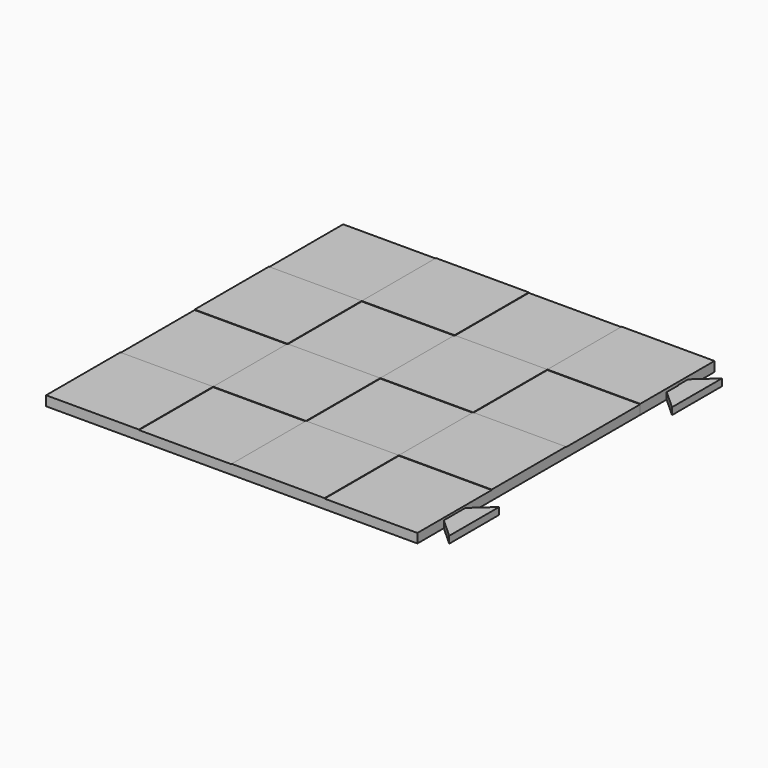
from build123d import *

# Parameters (mm, degrees)
F0_W     = 40
F0_H     = 40
F1_DEPTH = 4
F2_DEPTH = 4.2
F3_DEPTH = 3
F4_DEPTH = 3


with BuildPart() as f1:
    # F0 (on Top) → F1 (new body)
    with BuildSketch(Plane.XY):
        Polygon((-80, 80), (-80, 40), (-40, 40), (-40, 80), (-53.9420571923, 80), (-46.1195930839, 71.3396444917), (-60, 71.3396444917), (-73.8804069161, 71.3396444917), (-66.0579428077, 80), align=None)
        Polygon((-60, 80), (-66.0579428077, 80), (-73.8804069161, 71.3396444917), (-60, 71.3396444917), align=None)
        Polygon((-46.1195930839, 71.3396444917), (-53.9420571923, 80), (-60, 80), (-60, 71.3396444917), align=None)
        with Locations((-20, 60)):
            Rectangle(F0_W, F0_H)
        with Locations((20, 60)):
            Rectangle(F0_W, F0_H)
        Polygon((40, 80), (40, 40), (71.3396444917, 71.3396444917), (60, 71.3396444917), (46.1195930839, 71.3396444917), (53.9420571923, 80), align=None)
        Polygon((71.3396444917, 71.3396444917), (40, 40), (80, 40), (80, 53.9420571923), (80, 54.19581756), (80, 60), (80, 65.7884331082), (80, 66.0579428077), (80, 80), (72.6746045513, 72.6746045513), (73.8804069161, 71.3396444917), align=None)
        Polygon((72.6746045513, 72.6746045513), (71.3396444917, 71.3396444917), (73.8804069161, 71.3396444917), align=None)
        Polygon((60, 71.3396444917), (71.3396444917, 71.3396444917), (72.6746045513, 72.6746045513), (66.0579428077, 80), (60, 80), align=None)
        Polygon((66.0579428077, 80), (72.6746045513, 72.6746045513), (80, 80), align=None)
        Polygon((60, 80), (53.9420571923, 80), (46.1195930839, 71.3396444917), (60, 71.3396444917), align=None)
        with Locations((20, 20)):
            Rectangle(F0_W, F0_H)
        with Locations((-20, 20)):
            Rectangle(F0_W, F0_H)
        with Locations((-60, 20)):
            Rectangle(F0_W, F0_H)
        with Locations((-60, -20)):
            Rectangle(F0_W, F0_H)
        with Locations((-20, -20)):
            Rectangle(F0_W, F0_H)
        with Locations((20, -20)):
            Rectangle(F0_W, F0_H)
        with Locations((60, -20)):
            Rectangle(F0_W, F0_H)
        Polygon((40, -40), (40, -80), (80, -80), (80, -66.0579428077), (80, -65.7884331082), (80, -60), (80, -54.19581756), (80, -53.9420571923), (80, -40), align=None)
        with Locations((20, -60)):
            Rectangle(F0_W, F0_H)
        with Locations((-20, -60)):
            Rectangle(F0_W, F0_H)
        with Locations((-60, -60)):
            Rectangle(F0_W, F0_H)
        with Locations((60, 20)):
            Rectangle(F0_W, F0_H)
    extrude(amount=F1_DEPTH)


with BuildPart() as f2:
    # F0 (on Top) → F2 (new body)
    with BuildSketch(Plane.XY):
        with Locations((-60, -60)):
            Rectangle(F0_W, F0_H)
    extrude(amount=F2_DEPTH)


with BuildPart() as f2b:
    # F0 (on Top) → F2, piece 2 (new body)
    with BuildSketch(Plane.XY):
        with Locations((-20, -20)):
            Rectangle(F0_W, F0_H)
    extrude(amount=F2_DEPTH)


with BuildPart() as f2c:
    # F0 (on Top) → F2, piece 3 (new body)
    with BuildSketch(Plane.XY):
        with Locations((-60, 20)):
            Rectangle(F0_W, F0_H)
    extrude(amount=F2_DEPTH)


with BuildPart() as f2d:
    # F0 (on Top) → F2, piece 4 (new body)
    with BuildSketch(Plane.XY):
        with Locations((-20, 60)):
            Rectangle(F0_W, F0_H)
    extrude(amount=F2_DEPTH)


with BuildPart() as f2e:
    # F0 (on Top) → F2, piece 5 (new body)
    with BuildSketch(Plane.XY):
        with Locations((20, 20)):
            Rectangle(F0_W, F0_H)
    extrude(amount=F2_DEPTH)


with BuildPart() as f2f:
    # F0 (on Top) → F2, piece 6 (new body)
    with BuildSketch(Plane.XY):
        with Locations((60, -20)):
            Rectangle(F0_W, F0_H)
    extrude(amount=F2_DEPTH)


with BuildPart() as f2g:
    # F0 (on Top) → F2, piece 7 (new body)
    with BuildSketch(Plane.XY):
        with Locations((20, -60)):
            Rectangle(F0_W, F0_H)
    extrude(amount=F2_DEPTH)


with BuildPart() as f2h:
    # F0 (on Top) → F2, piece 8 (new body)
    with BuildSketch(Plane.XY):
        Polygon((40, 80), (40, 40), (71.3396444917, 71.3396444917), (60, 71.3396444917), (46.1195930839, 71.3396444917), (53.9420571923, 80), align=None)
        Polygon((71.3396444917, 71.3396444917), (40, 40), (80, 40), (80, 53.9420571923), (80, 54.19581756), (80, 60), (80, 65.7884331082), (80, 66.0579428077), (80, 80), (72.6746045513, 72.6746045513), (73.8804069161, 71.3396444917), align=None)
        Polygon((60, 71.3396444917), (71.3396444917, 71.3396444917), (72.6746045513, 72.6746045513), (66.0579428077, 80), (60, 80), align=None)
        Polygon((60, 80), (53.9420571923, 80), (46.1195930839, 71.3396444917), (60, 71.3396444917), align=None)
        Polygon((66.0579428077, 80), (72.6746045513, 72.6746045513), (80, 80), align=None)
        Polygon((72.6746045513, 72.6746045513), (71.3396444917, 71.3396444917), (73.8804069161, 71.3396444917), align=None)
    extrude(amount=F2_DEPTH)


with BuildPart() as f3_tool:
    # F0 (on Top) → F3 (new body)
    with BuildSketch(Plane.XY):
        Polygon((60, 80), (53.9420571923, 80), (46.1195930839, 71.3396444917), (60, 71.3396444917), align=None)
        Polygon((60, 71.3396444917), (71.3396444917, 71.3396444917), (72.6746045513, 72.6746045513), (66.0579428077, 80), (60, 80), align=None)
        Polygon((72.6746045513, 72.6746045513), (71.3396444917, 71.3396444917), (73.8804069161, 71.3396444917), align=None)
        Polygon((-60, 80), (-66.0579428077, 80), (-73.8804069161, 71.3396444917), (-60, 71.3396444917), align=None)
        Polygon((-46.1195930839, 71.3396444917), (-53.9420571923, 80), (-60, 80), (-60, 71.3396444917), align=None)
    extrude(amount=F3_DEPTH)


with BuildPart() as f1_1:
    add(f1.part)

    # F3: cut by f3_tool
    add(f3_tool.part, mode=Mode.SUBTRACT)


with BuildPart() as f2h_1:
    add(f2h.part)

    # F3: cut by f3_tool
    add(f3_tool.part, mode=Mode.SUBTRACT)


with BuildPart() as f4:
    # F0 (on Top) → F4 (new body)
    with BuildSketch(Plane.XY):
        Polygon((80, 65.7884331082), (80, 60), (80.2000014764, 60), (80.2000014764, 65.9690843954), align=None)
        Polygon((80.2000014764, 60), (80.2000014764, 54.0309156046), (88.460354032, 46.5697540706), (88.460354032, 60), align=None)
        Polygon((80.2000014764, 65.9690843954), (80.2000014764, 60), (88.460354032, 60), (88.460354032, 73.4302459294), align=None)
    extrude(amount=F4_DEPTH)


with BuildPart() as f4b:
    # F0 (on Top) → F4, piece 2 (new body)
    with BuildSketch(Plane.XY):
        Polygon((80, -54.19581756), (80, -60), (88.460354032, -60), (88.460354032, -46.5697540706), (80.2000014764, -54.0309156046), align=None)
        Polygon((80, -60), (80, -65.7884331082), (80.2000014764, -65.9690843954), (88.460354032, -73.4302459294), (88.460354032, -60), align=None)
    extrude(amount=F4_DEPTH)


solid = Compound([f2.part, f2b.part, f2c.part, f2d.part, f2e.part, f2f.part, f2g.part, f1_1.part, f2h_1.part, f4.part, f4b.part])
